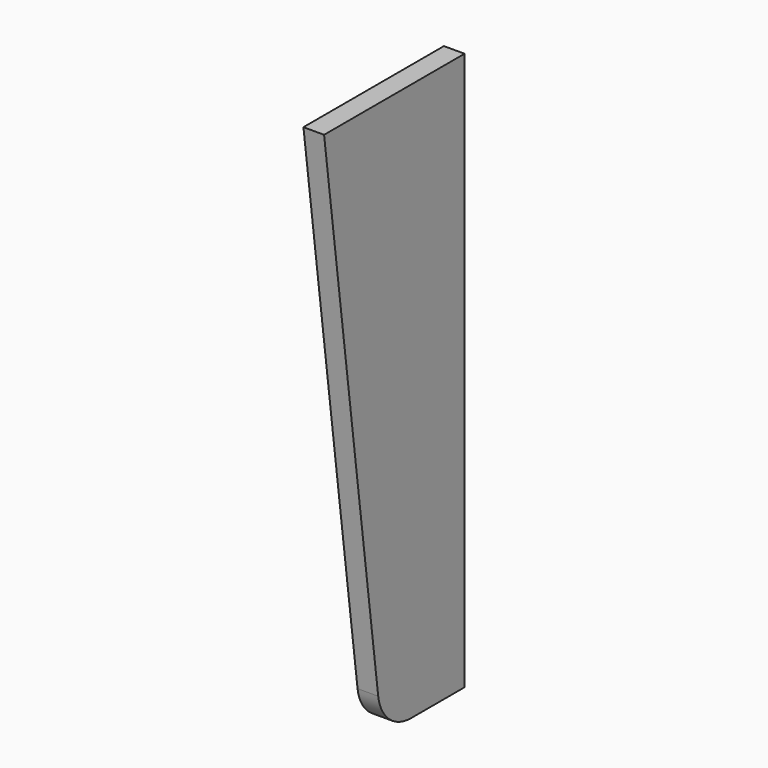
from build123d import *

# Parameters (mm, degrees)
F1_DEPTH = 2


with BuildPart() as f1:
    # F0 (on Right) → F1 (new body)
    with BuildSketch(Plane.YZ):
        with BuildLine():
            Line((44.052611, -22.892537), (44.052611, 31.107463))
            Line((44.052611, 31.107463), (27.052611, 31.107463))
            Line((27.052611, 31.107463), (33.60075, -19.406753))
            ThreePointArc((33.60075, -19.406753), (34.927188, -21.897272), (37.56756, -22.892537))
            Line((37.56756, -22.892537), (44.052611, -22.892537))
        make_face()
    extrude(amount=F1_DEPTH)


solid = f1.part
